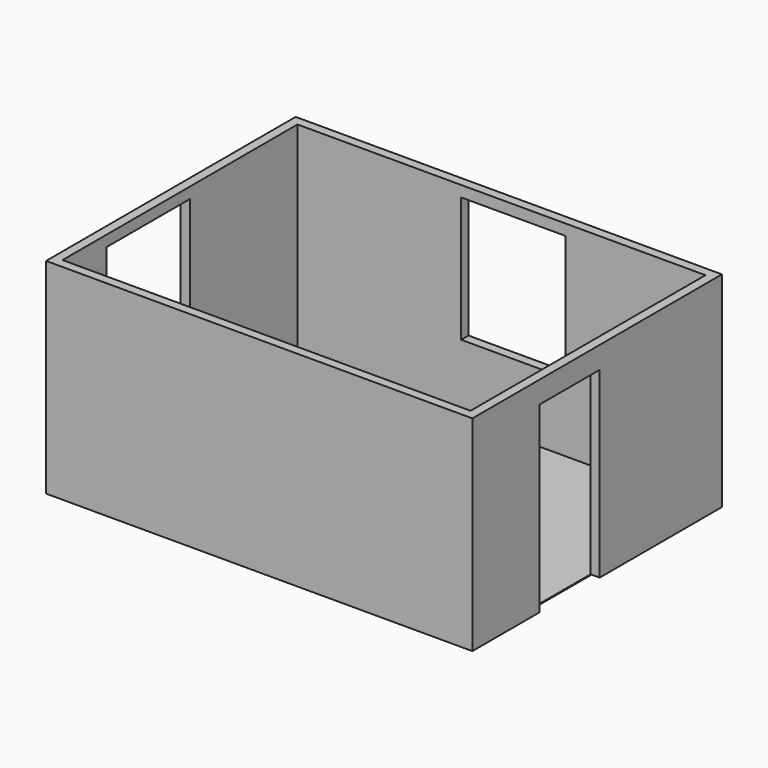
from build123d import *

# Parameters (mm, degrees)
F0_W     = 4460
F0_H     = 3210
F1_DEPTH = 10
F2_W     = 4660
F2_H     = 3410
F2_W_2   = 4460
F2_H_2   = 3210
F3_DEPTH = 2240
F4_W     = 1140
F4_H     = 1370
F5_DEPTH = 300
F6_W     = 1140
F6_H     = 1370
F7_DEPTH = 300
F8_W     = 820
F8_H     = 2000
F9_DEPTH = 150


with BuildPart() as f1:
    # F0 (on Top) → F1 (new body)
    with BuildSketch(Plane.XY):
        Rectangle(F0_W, F0_H)
    extrude(amount=F1_DEPTH)

    # F2 (on face) → F3 (join)
    with BuildSketch(Plane.XY.offset(10)):
        Rectangle(F2_W, F2_H)
        Rectangle(F2_W_2, F2_H_2, mode=Mode.SUBTRACT)
    extrude(amount=F3_DEPTH)

    # F4 (on face) → F5 (cut)
    with BuildSketch(Plane.YZ.offset(-2230)):
        with Locations((-435, 1445)):
            Rectangle(F4_W, F4_H)
    extrude(amount=-F5_DEPTH, mode=Mode.SUBTRACT)

    # F6 (on face) → F7 (cut)
    with BuildSketch(Plane.XZ.offset(-1605)):
        with Locations((130, 1445)):
            Rectangle(F6_W, F6_H)
    extrude(amount=-F7_DEPTH, mode=Mode.SUBTRACT)

    # F8 (on face) → F9 (cut)
    with BuildSketch(Plane(origin=(2230, 0, 0), x_dir=(0, -1, 0), z_dir=(-1, 0, 0))):
        with Locations((375, 1010)):
            Rectangle(F8_W, F8_H)
    extrude(amount=-F9_DEPTH, mode=Mode.SUBTRACT)


solid = f1.part
